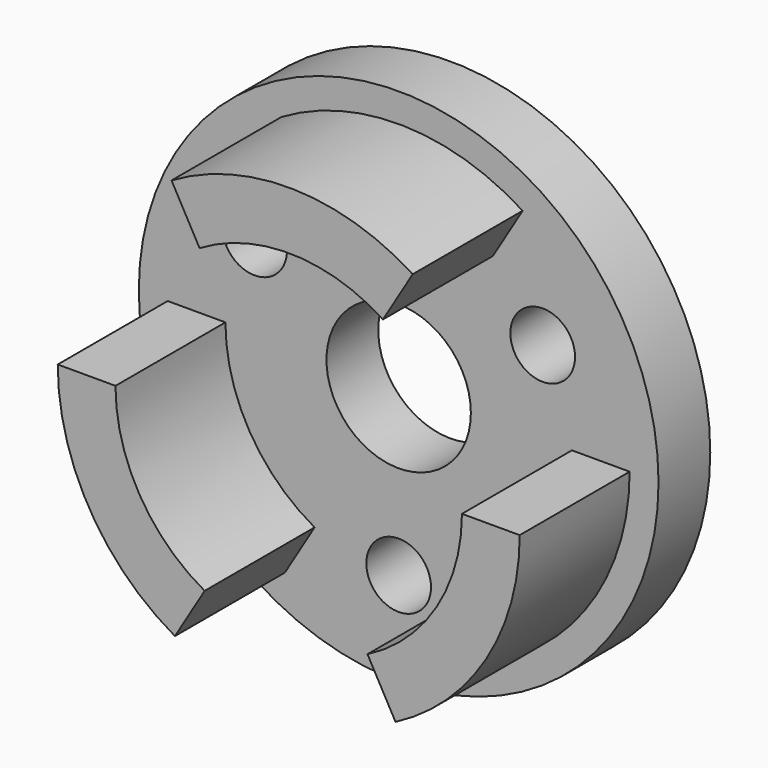
from build123d import *

# Parameters (mm, degrees)
F0_R     = 57.15
F1_DEPTH = 14.224
F2_R     = 15.875
F3_DEPTH = 14.225
F4_R     = 7.112
F5_DEPTH = 14.225
F7_DEPTH = 30.226


with BuildPart() as f1:
    # F0 (on Front) → F1 (new body)
    with BuildSketch(Plane.XZ):
        Circle(F0_R)
    extrude(amount=F1_DEPTH)

    # F2 (on face) → F3 (cut, through all)
    with BuildSketch(Plane.XZ.offset(14.224)):
        Circle(F2_R)
    extrude(amount=-F3_DEPTH, mode=Mode.SUBTRACT)

    # F4 (on face) → F5 (cut, through all)
    with BuildSketch(Plane.XZ.offset(14.224)):
        with Locations((0, -36.576)):
            Circle(F4_R)
        with Locations((31.675745, 18.288)):
            Circle(F4_R)
        with Locations((-31.675745, 18.288)):
            Circle(F4_R)
    extrude(amount=-F5_DEPTH, mode=Mode.SUBTRACT)

    # F6 (on face) → F7 (join)
    with BuildSketch(Plane.XZ.offset(14.224)):
        with BuildLine():
            ThreePointArc((-18.485466, -33.315125), (-32.832196, -19.330206), (-38.1, 0))
            Line((-38.1, 0), (-50.8, 0))
            ThreePointArc((-50.8, 0), (-43.886307, -25.585779), (-25.027083, -44.207297))
            Line((-25.027083, -44.207297), (-18.485466, -33.315125))
        make_face()
        with BuildLine():
            Line((50.8, 0), (38.1, 0))
            ThreePointArc((38.1, 0), (32.493945, -19.893555), (17.325537, -33.932813))
            Line((17.325537, -33.932812), (23.487626, -45.044105))
            ThreePointArc((23.487626, -45.044105), (43.438528, -26.338836), (50.8, 0))
        make_face()
        with BuildLine():
            Line((20.723909, 31.970762), (27.265526, 42.862934))
            ThreePointArc((27.265526, 42.862934), (0.876096, 50.792445), (-25.771101, 43.777738))
            Line((-25.771101, 43.777738), (-19.609012, 32.666446))
            ThreePointArc((-19.609012, 32.666446), (0.657072, 38.094334), (20.723909, 31.970762))
        make_face()
    extrude(amount=F7_DEPTH)


solid = f1.part
